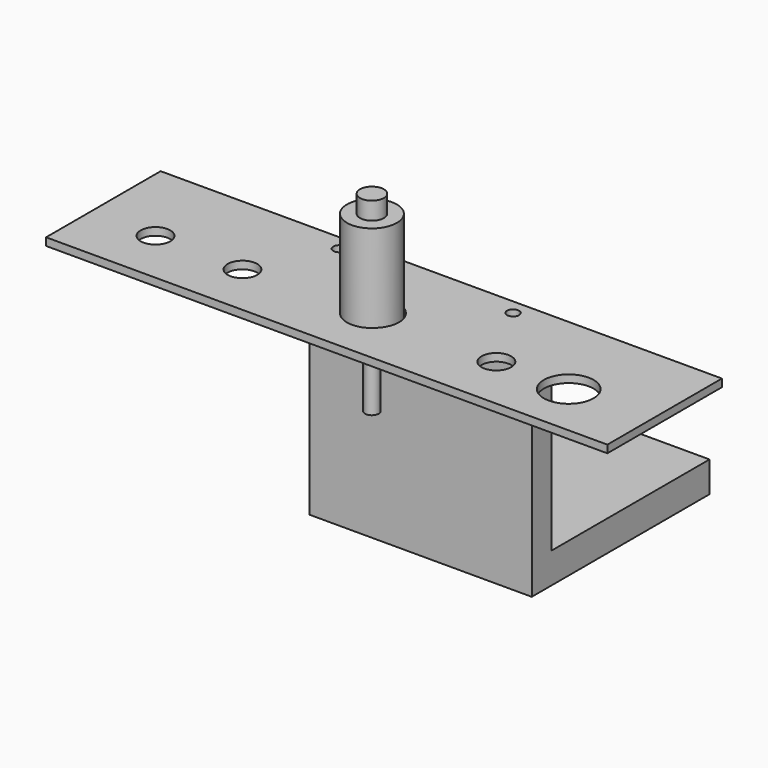
from build123d import *

# Parameters (mm, degrees)
F0_W     = 58
F0_H     = 51.5282800556
F0_H_2   = 4.9766063481
F0_R     = 1.5759875193
F0_H_3   = 1.4951135963
F1_DEPTH = 8
F2_DEPTH = 60
F3_W     = 146.5211510658
F3_H     = 37.3778454959
F3_R     = 3.8667043838
F3_R_2   = 6.4979660069
F3_R_3   = 1.5759875193
F4_DEPTH = 2
F6_R     = 6.5200845175
F6_R_2   = 3.1161067254
F6_R_3   = 1.7910630542
F7_DEPTH = 25.4
F8_DEPTH = 30
F9_DEPTH = 20


with BuildPart() as f1:
    # F0 (on Top) → F1 (new body)
    with BuildSketch(Plane.XY):
        with Locations((0, 2.3727479458)):
            Rectangle(F0_W, F0_H)
        with Locations((0, -27.3748088524)):
            Rectangle(F0_W, F0_H_2)
        with Locations((-23.1747832149, -27.3783635348)):
            Circle(F0_R, mode=Mode.SUBTRACT)
        with Locations((22.1770014614, -27.3783635348)):
            Circle(F0_R, mode=Mode.SUBTRACT)
        with Locations((-23.1747832149, -27.3783635348)):
            Circle(F0_R)
        with Locations((0, -24.1389488801)):
            Rectangle(F0_W, F0_H_3)
        with Locations((22.1770014614, -27.3783635348)):
            Circle(F0_R)
    extrude(amount=F1_DEPTH)

    # F0 (on Top) → F2 (join)
    with BuildSketch(Plane.XY):
        with Locations((0, -27.3748088524)):
            Rectangle(F0_W, F0_H_2)
        with Locations((-23.1747832149, -27.3783635348)):
            Circle(F0_R, mode=Mode.SUBTRACT)
        with Locations((22.1770014614, -27.3783635348)):
            Circle(F0_R, mode=Mode.SUBTRACT)
        with Locations((0, -24.1389488801)):
            Rectangle(F0_W, F0_H_3)
        with Locations((22.1770014614, -27.3783635348)):
            Circle(F0_R)
        with Locations((-23.1747832149, -27.3783635348)):
            Circle(F0_R)
    extrude(amount=F2_DEPTH)


with BuildPart() as f4:
    # F3 (on Top) → F4 (new body)
    with BuildSketch(Plane.XY):
        with Locations((0.4378768064, -13.6768170075)):
            Rectangle(F3_W, F3_H)
        with Locations((-55.81778787, -17.9232810067)):
            Circle(F3_R, mode=Mode.SUBTRACT)
        with Locations((-32.7037883543, -18.431276493)):
            Circle(F3_R, mode=Mode.SUBTRACT)
        with Locations((0.2879899841, -16.7379532384)):
            Circle(F3_R_2, mode=Mode.SUBTRACT)
        with Locations((33.1668841101, -17.9232810067)):
            Circle(F3_R, mode=Mode.SUBTRACT)
        with Locations((52.2316261896, -18.1438936605)):
            Circle(F3_R_2, mode=Mode.SUBTRACT)
        with Locations((-22.985569536, 1.0251342876)):
            Circle(F3_R_3, mode=Mode.SUBTRACT)
        with Locations((22.3662151403, 1.0251342876)):
            Circle(F3_R_3, mode=Mode.SUBTRACT)
    extrude(amount=F4_DEPTH)


with BuildPart() as f4_1:
    # F5: moved
    add(f4.part.moved(Location((0, -28.702, 60.198))))


with BuildPart() as f7:
    # F6 (on Top) → F7 (new body)
    with BuildSketch(Plane.XY):
        with Locations((0, -45.5365553498)):
            Circle(F6_R)
        with Locations((0, -45.5365553498)):
            Circle(F6_R_2, mode=Mode.SUBTRACT)
        with Locations((0, -45.5365553498)):
            Circle(F6_R_2)
        with Locations((0, -45.5365553498)):
            Circle(F6_R_3, mode=Mode.SUBTRACT)
        with Locations((0, -45.5365553498)):
            Circle(F6_R_3)
    extrude(amount=F7_DEPTH)

    # F6 (on Top) → F8 (join)
    with BuildSketch(Plane.XY):
        with Locations((0, -45.5365553498)):
            Circle(F6_R_2)
        with Locations((0, -45.5365553498)):
            Circle(F6_R_3, mode=Mode.SUBTRACT)
        with Locations((0, -45.5365553498)):
            Circle(F6_R_3)
    extrude(amount=F8_DEPTH)

    # F6 (on Top) → F9 (join)
    with BuildSketch(Plane.XY):
        with Locations((0, -45.5365553498)):
            Circle(F6_R_3)
    extrude(amount=-F9_DEPTH)


with BuildPart() as f7_1:
    # F10: moved
    add(f7.part.moved(Location((0, -0.2286, 59.69))))


solid = Compound([f1.part, f4_1.part, f7_1.part])
